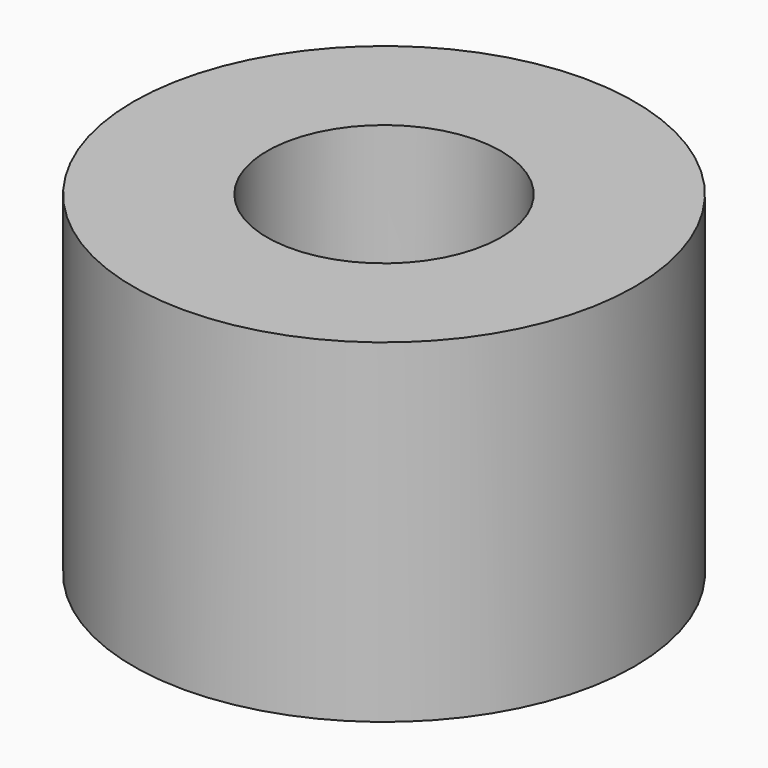
from build123d import *

# Parameters (mm, degrees)
CYLINDER005_R     = 2.1
CYLINDER005_DEPTH = 6
CYLINDER006_R     = 4.5
CYLINDER006_DEPTH = 6


with BuildPart() as cylinder005:
    # Cylinder005 → Cylinder005 (new body)
    with BuildSketch(Plane(origin=(49.25, 85.81, 0), x_dir=(1, 0, 0), z_dir=(0, 0, 1))):
        Circle(CYLINDER005_R)
    extrude(amount=CYLINDER005_DEPTH)


with BuildPart() as cut001003006:
    # Cylinder006 → Cylinder006 (new body)
    with BuildSketch(Plane(origin=(49.25, 85.81, 0), x_dir=(1, 0, 0), z_dir=(0, 0, 1))):
        Circle(CYLINDER006_R)
    extrude(amount=CYLINDER006_DEPTH)

    # Cut001003006: cut Cylinder005
    add(cylinder005.part, mode=Mode.SUBTRACT)


solid = cut001003006.part
